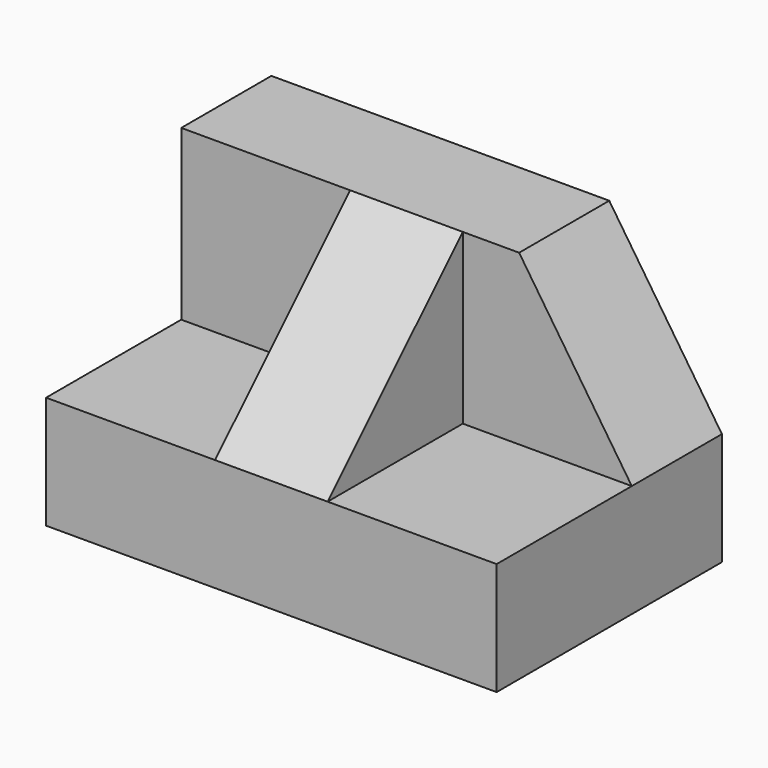
from build123d import *

# Parameters (mm, degrees)
F0_W     = 50.797824
F0_H     = 31.739995
F1_DEPTH = 31.75
F3_DEPTH = 31.751
F5_DEPTH = 19.05
F7_DEPTH = 31.742131
F9_DEPTH = 19.05


with BuildPart() as f1:
    # F0 (on Front) → F1 (new body)
    with BuildSketch(Plane.XZ):
        with Locations((25.398912, 15.869997)):
            Rectangle(F0_W, F0_H)
    extrude(amount=F1_DEPTH)

    # F2 (on face) → F3 (cut, through all)
    with BuildSketch(Plane.XZ.offset(31.75)):
        Polygon((50.797824, 31.739995), (38.095411, 31.739995), (50.797824, 12.707176), align=None)
    extrude(amount=-F3_DEPTH, mode=Mode.SUBTRACT)

    # F4 (on face) → F5 (cut)
    with BuildSketch(Plane.XZ.offset(31.75)):
        Polygon((31.741131, 12.707176), (50.797824, 12.707176), (38.095411, 31.739995), (31.741131, 31.739995), align=None)
    extrude(amount=-F5_DEPTH, mode=Mode.SUBTRACT)

    # F6 (on face) → F7 (cut, through all)
    with BuildSketch(Plane.YZ.offset(31.741131)):
        Polygon((-31.75, 12.707176), (-12.7, 31.739995), (-31.75, 31.739995), align=None)
    extrude(amount=-F7_DEPTH, mode=Mode.SUBTRACT)

    # F8 (on face) → F9 (cut)
    with BuildSketch(Plane(origin=(0, 0, 0), x_dir=(0, -1, 0), z_dir=(-1, 0, 0))):
        Polygon((12.7, 12.707176), (31.75, 12.707176), (12.7, 31.739995), align=None)
    extrude(amount=-F9_DEPTH, mode=Mode.SUBTRACT)


solid = f1.part
